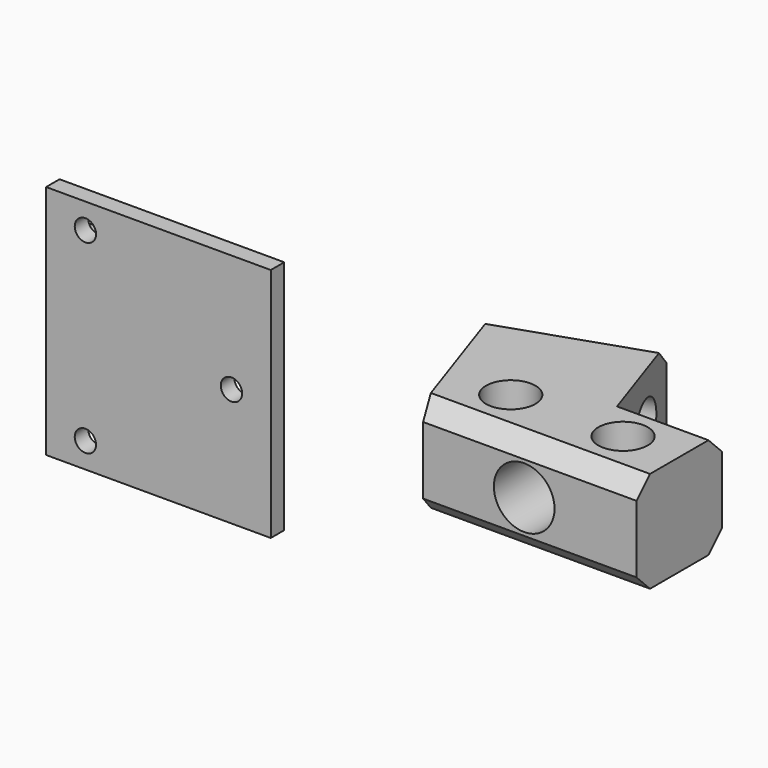
from build123d import *

# Parameters (mm, degrees)
F0_R          = 4.4
F1_DEPTH      = 18
F2_R          = 5.4
F3_DEPTH      = 15
F4_R          = 4.4
F5_DEPTH      = 55
F6_SIZE       = 3
F7_DEPTH      = 18
F8_DEPTH      = 30
F8_DEPTH_BACK = 12
F9_R          = 4.4
F10_DEPTH     = 45
F11_SIZE      = 3
F12_R         = 1.9
F13_DEPTH     = 25


with BuildPart() as f1:
    # F0 (on Top) → F1 (new body)
    with BuildSketch(Plane.XY):
        Polygon((-9.0745158411, 26.8095021806), (0, 0), (38, 0), (38, 19), (20.7078506061, 19), (15.27478958, 35.0512873608), align=None)
        with Locations((8, 9.5)):
            Circle(F0_R, mode=Mode.SUBTRACT)
        with Locations((28, 9.5)):
            Circle(F0_R, mode=Mode.SUBTRACT)
    extrude(amount=F1_DEPTH)

    # F2 (on Front) → F3 (cut)
    with BuildSketch(Plane.XZ):
        with Locations((18, 9)):
            Circle(F2_R)
    extrude(amount=-F3_DEPTH, mode=Mode.SUBTRACT)

    # F4 (on face) → F5 (cut)
    with BuildSketch(Plane(origin=(24.3493054211, 8.2417851803, 0), x_dir=(-0.3206129906, 0.9472102777, 0), z_dir=(0.9472102777, 0.3206129906, 0))):
        with Locations((19.8036436686, 9)):
            Circle(F4_R)
    extrude(amount=-F5_DEPTH, mode=Mode.SUBTRACT)

    # F6
    f6_edges = [f1.edges().sort_by_distance(p)[0] for p in [
        (3.100137, 30.930395, 18),
        (3.100137, 30.930395, 0),
        (29.353925, 19, 18),
        (29.353925, 19, 0),
        (19, 0, 18),
        (19, 0, 0),
    ]]
    chamfer(f6_edges, length=F6_SIZE)


with BuildPart() as f7:
    # F0 (on Top) → F7 (new body)
    with BuildSketch(Plane.XY):
        Polygon((-72.3410998646, 15.4356386176), (-67.1164244413, 0), (-67.1164244413, 3), (-43.0546485322, 3), (-49.8416348613, 23.0512873608), align=None)
    extrude(amount=F7_DEPTH)

    # F0 (on Top) → F8 (join, two sides)
    with BuildSketch(Plane.XY) as f8_sk:
        Polygon((-67.1164244413, 3), (-67.1164244413, 0), (-27.1164244413, 0), (-27.1164244413, 3), (-43.0546485322, 3), align=None)
    extrude(amount=F8_DEPTH)
    extrude(f8_sk.sketch, amount=-F8_DEPTH_BACK)

    # F9 (on face) → F10 (cut)
    with BuildSketch(Plane(origin=(-37.7178816445, -12.7667985839, 0), x_dir=(-0.3206129906, 0.9472102777, 0), z_dir=(0.9472102777, 0.3206129906, 0))):
        with Locations((29.314291912, 9)):
            Circle(F9_R)
    extrude(amount=-F10_DEPTH, mode=Mode.SUBTRACT)

    # F11
    f11_edges = [f7.edges().sort_by_distance(p)[0] for p in [
        (-61.091367, 19.243463, 18),
        (-61.091367, 19.243463, 0),
        (-55.085536, 3, 18),
        (-55.085536, 3, 0),
    ]]
    chamfer(f11_edges, length=F11_SIZE)

    # F12 (on face) → F13 (cut)
    with BuildSketch(Plane(origin=(0, 3, 0), x_dir=(-1, 0, 0), z_dir=(0, 1, 0))):
        with Locations((60.1164244413, -7.5)):
            Circle(F12_R)
        with Locations((60.1164244413, 25.5)):
            Circle(F12_R)
        with Locations((34.1164244413, 9)):
            Circle(F12_R)
    extrude(amount=-F13_DEPTH, mode=Mode.SUBTRACT)


solid = Compound([f1.part, f7.part])
